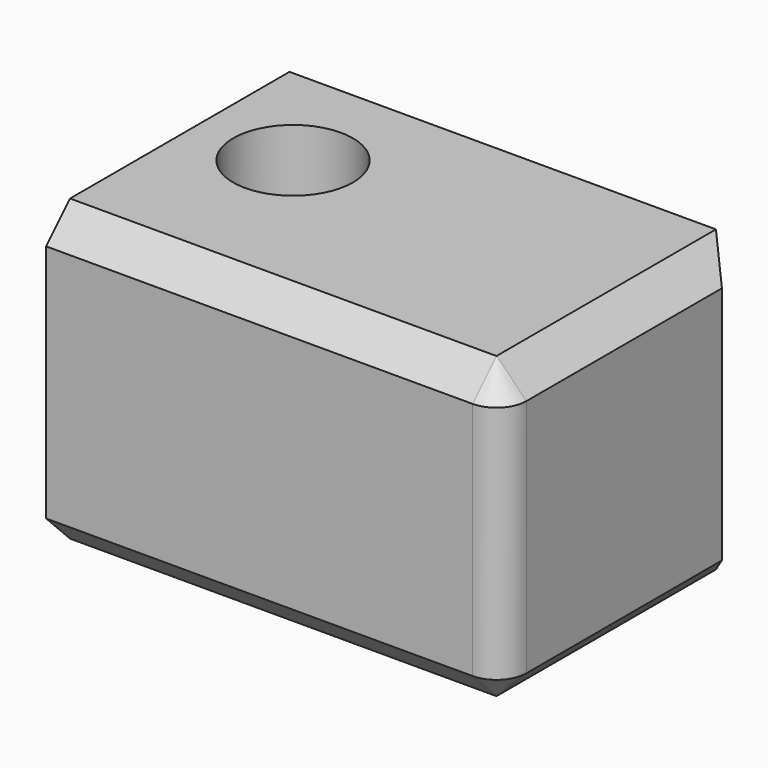
from build123d import *

# Parameters (mm, degrees)
F0_W     = 76.2
F0_H     = 50.8
F1_DEPTH = 25
F2_R     = 10
F3_DEPTH = 25
F4_R     = 5
F5_SIZE  = 5


with BuildPart() as f1:
    # F0 (on Top) → F1 (new body, symmetric)
    with BuildSketch(Plane.XY):
        Rectangle(F0_W, F0_H)
    extrude(amount=F1_DEPTH, both=True)

    # F2 (on face) → F3 (cut)
    with BuildSketch(Plane.XY.offset(25)):
        with Locations((-22.124985, 6.172692)):
            Circle(F2_R)
    extrude(amount=-F3_DEPTH, mode=Mode.SUBTRACT)

    # F4
    f4_edges = [f1.edges().sort_by_distance(p)[0] for p in [
        (38.1, -25.4, 0),
    ]]
    fillet(f4_edges, radius=F4_R)

    # F5
    f5_edges = [f1.edges().sort_by_distance(p)[0] for p in [
        (38.1, 2.5, -25),
        (38.1, -20.4, 0),
        (38.1, 25.4, 0),
        (38.1, 2.5, 25),
    ]]
    chamfer(f5_edges, length=F5_SIZE)


solid = f1.part
